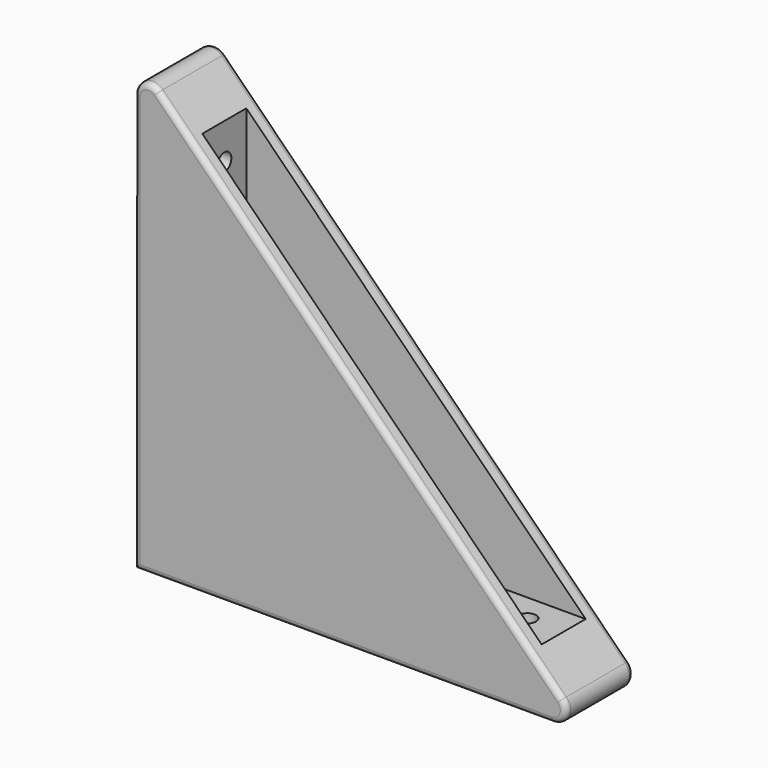
from build123d import *

# Parameters (mm, degrees)
F1_DEPTH  = 7.5
F2_R      = 6.375
F3_DEPTH  = 3.125
F4_R      = 6.375
F5_DEPTH  = 3.125
F6_W      = 60.104076
F6_H      = 60.104076
F7_DEPTH  = 4.875
F8_R      = 1.55
F9_DEPTH  = 76.876
F10_R     = 1.55
F11_DEPTH = 76.876
F12_R     = 2.5
F13_R     = 1


with BuildPart() as f1:
    # F0 (on Front) → F1 (new body, symmetric)
    with BuildSketch(Plane.XZ):
        Polygon((80, 0), (0, 80), (0, 0), align=None)
    extrude(amount=F1_DEPTH, both=True)

    # F2 (on face) → F3 (cut)
    with BuildSketch(Plane(origin=(0, 0, 0), x_dir=(0, -1, 0), z_dir=(-1, 0, 0))):
        with Locations((0, 63.625)):
            Circle(F2_R)
        with Locations((0, 40)):
            Circle(F2_R)
        with Locations((0, 16.375)):
            Circle(F2_R)
    extrude(amount=-F3_DEPTH, mode=Mode.SUBTRACT)

    # F4 (on face) → F5 (cut)
    with BuildSketch(Plane(origin=(0, 0, 0), x_dir=(1, 0, 0), z_dir=(0, 0, -1))):
        with Locations((16.375, 0)):
            Circle(F4_R)
        with Locations((40, 0)):
            Circle(F4_R)
        with Locations((63.625, 0)):
            Circle(F4_R)
    extrude(amount=-F5_DEPTH, mode=Mode.SUBTRACT)

    # F6 (on Front) → F7 (cut, symmetric)
    with BuildSketch(Plane.XZ):
        with Locations((40, 40)):
            Rectangle(F6_W, F6_H)
    extrude(amount=F7_DEPTH, both=True, mode=Mode.SUBTRACT)

    # F8 (on face) → F9 (cut, through all)
    with BuildSketch(Plane(origin=(3.125, 0, 0), x_dir=(0, -1, 0), z_dir=(-1, 0, 0))):
        with Locations((0, 63.625)):
            Circle(F8_R)
        with Locations((0, 40)):
            Circle(F8_R)
        with Locations((0, 16.375)):
            Circle(F8_R)
    extrude(amount=-F9_DEPTH, mode=Mode.SUBTRACT)

    # F10 (on face) → F11 (cut, through all)
    with BuildSketch(Plane(origin=(0, 0, 3.125), x_dir=(1, 0, 0), z_dir=(0, 0, -1))):
        with Locations((16.375, 0)):
            Circle(F10_R)
        with Locations((40, 0)):
            Circle(F10_R)
        with Locations((63.625, 0)):
            Circle(F10_R)
    extrude(amount=-F11_DEPTH, mode=Mode.SUBTRACT)

    # F12
    f12_edges = [f1.edges().sort_by_distance(p)[0] for p in [
        (0, 0, 80),
        (80, 0, 0),
    ]]
    fillet(f12_edges, radius=F12_R)

    # F13
    f13_edges = [f1.edges().sort_by_distance(p)[0] for p in [
        (40, -7.5, 40),
        (40, 7.5, 40),
    ]]
    fillet(f13_edges, radius=F13_R)


solid = f1.part
